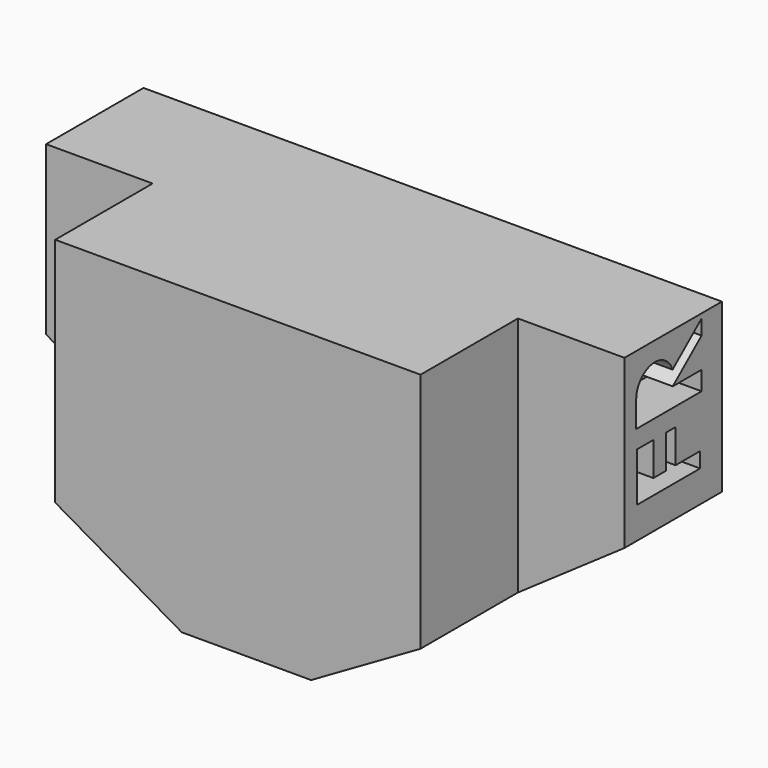
from build123d import *

# Parameters (mm, degrees)
F1_DEPTH = 50.8
F3_DEPTH = 25.4
F5_DEPTH = 10.16


with BuildPart() as f1:
    # F0 (on Front) → F1 (new body)
    with BuildSketch(Plane.XZ):
        Polygon((-72.035342, 0), (-45.047842, 0), (-22.225, 13.176774), (0, 28.575), (0, 63.5), (-120.65, 63.5), (-120.65, 28.575), (-98.425, 15.236076), align=None)
    extrude(amount=F1_DEPTH)

    # F2 (on face) → F3 (cut)
    with BuildSketch(Plane.XZ.offset(50.8)):
        Polygon((-22.225, 63.5), (-22.225, 13.176774), (0, 28.575), (0, 63.5), align=None)
        Polygon((-98.425, 15.236076), (-98.425, 63.5), (-120.65, 63.5), (-120.65, 28.575), align=None)
    extrude(amount=-F3_DEPTH, mode=Mode.SUBTRACT)

    # F4 (on face) → F5 (cut)
    with BuildSketch(Plane.YZ):
        Polygon((-22.143953, 35.172231), (-5.684754, 35.172231), (-5.684754, 38.358856), (-12.085554, 38.358856), (-12.085554, 45.369253), (-14.523953, 45.369253), (-14.523953, 38.358856), (-17.876754, 38.358856), (-17.876754, 45.369253), (-22.143953, 45.369253), align=None)
        with BuildLine():
            Line((-22.353571, 54.602597), (-22.353571, 49.187634))
            Line((-22.353571, 49.187634), (-5.304984, 49.187634))
            Line((-5.304984, 49.187634), (-5.304984, 53.145573))
            Line((-5.304984, 53.145573), (-12.81351, 53.145573))
            Line((-12.81351, 53.145573), (-5.304984, 59.421983))
            Line((-5.304984, 59.421983), (-5.304984, 62.560186))
            Line((-5.304984, 62.560186), (-12.86866, 56.237676))
            ThreePointArc((-12.86866, 56.237676), (-18.29978, 59.415003), (-22.353571, 54.602597))
        make_face()
    extrude(amount=-F5_DEPTH, mode=Mode.SUBTRACT)


solid = f1.part
